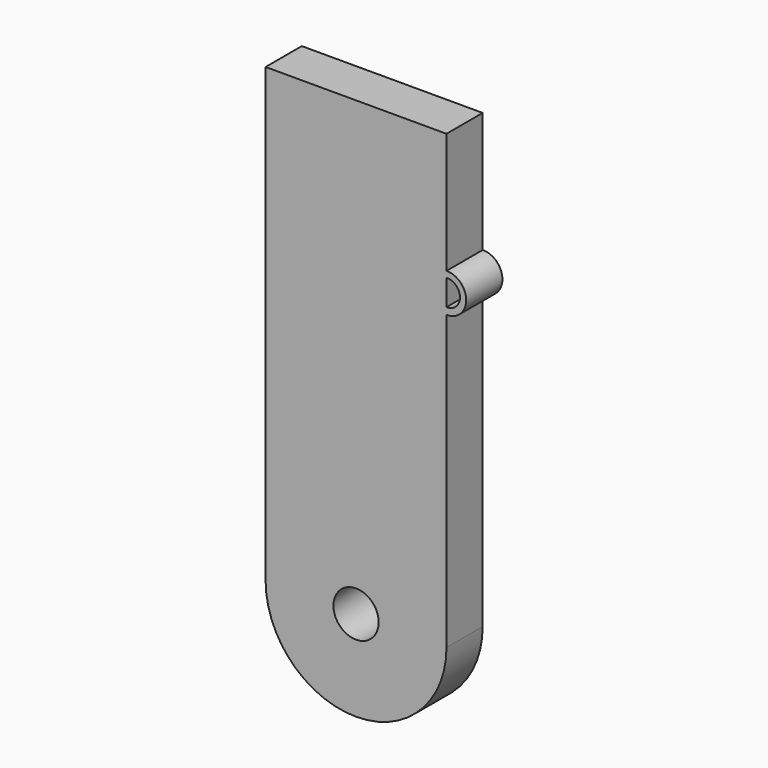
from build123d import *

# Parameters (mm, degrees)
F0_W     = 25.4
F0_H     = 63.5
F1_DEPTH = 6.35
F2_R     = 3.175
F3_DEPTH = 6.35
F5_DEPTH = 6.35


with BuildPart() as f1:
    # F0 (on Front) → F1 (new body)
    with BuildSketch(Plane.XZ):
        with Locations((12.7, 31.75)):
            Rectangle(F0_W, F0_H)
        with BuildLine():
            Line((25.4, 0), (0, 0))
            ThreePointArc((0, 0), (12.7, -12.7), (25.4, 0))
        make_face()
    extrude(amount=F1_DEPTH)

    # F2 (on face) → F3 (cut, through all)
    with BuildSketch(Plane.XZ.offset(6.35)):
        with Locations((12.7, 0)):
            Circle(F2_R)
    extrude(amount=-F3_DEPTH, mode=Mode.SUBTRACT)

    # F4 (on face) → F5 (join, through all)
    with BuildSketch(Plane.XZ.offset(6.35)):
        with BuildLine():
            Line((25.4, 42.067379), (25.4, 41.11632))
            ThreePointArc((25.4, 41.11632), (28.170174, 43.834941), (25.4, 46.553563))
            Line((25.4, 46.553563), (25.4, 45.699533))
            ThreePointArc((25.4, 45.699533), (27.298498, 43.883456), (25.4, 42.067379))
        make_face()
    extrude(amount=-F5_DEPTH)


solid = f1.part
